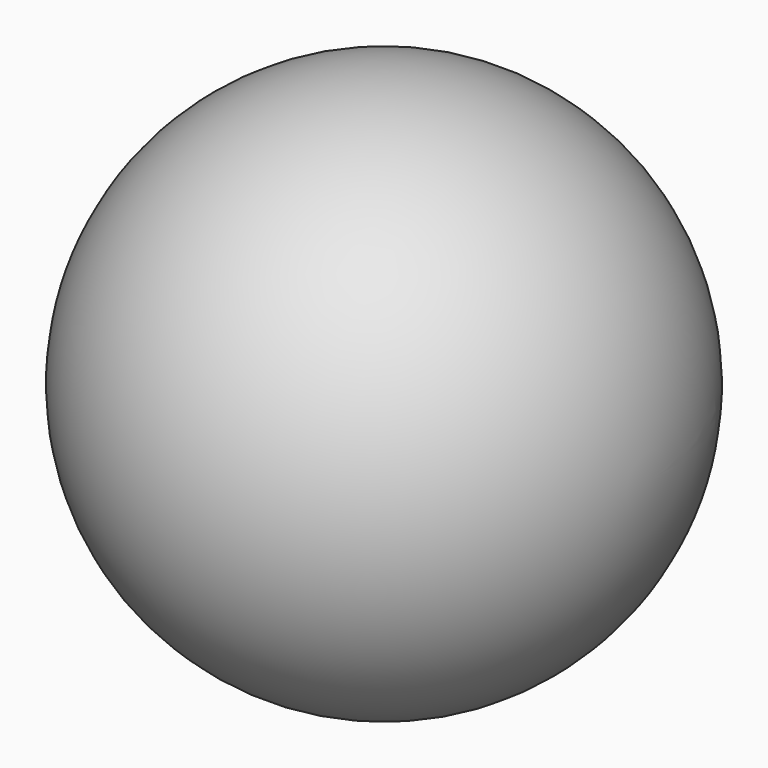
from build123d import *


with BuildPart() as f1:
    # F0 (on Top) → F1 (revolve)
    with BuildSketch(Plane.XY):
        with BuildLine():
            Line((0, 0), (21.791867, 0))
            ThreePointArc((21.791867, 0), (0, 21.791867), (-21.791867, 0))
            Line((-21.791867, 0), (0, 0))
        make_face()
    revolve(axis=Axis((0, 0, 0), (-1, 0, 0)))


solid = f1.part
